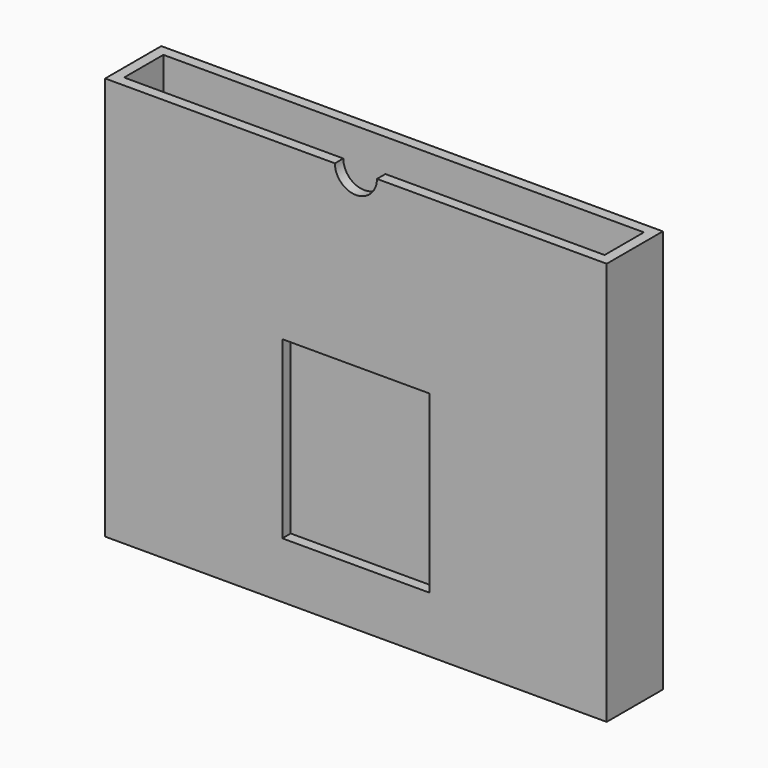
from build123d import *

# Parameters (mm, degrees)
F0_W     = 908.05
F0_H     = 127
F0_W_2   = 869.95
F0_H_2   = 88.9
F1_DEPTH = 730.25
F3_DEPTH = 25.4
F4_R     = 38.1
F5_DEPTH = 25.4


with BuildPart() as f1:
    # F0 (on Top) → F1 (new body)
    with BuildSketch(Plane.XY):
        Rectangle(F0_W, F0_H)
        Rectangle(F0_W_2, F0_H_2, mode=Mode.SUBTRACT)
    extrude(amount=F1_DEPTH)

    # F2 (on face) → F3 (cut)
    with BuildSketch(Plane.XZ.offset(63.5)):
        Polygon((-133.35, 101.6), (0, 101.6), (133.35, 101.6), (133.35, 419.1), (-133.35, 419.1), align=None)
    extrude(amount=-F3_DEPTH, mode=Mode.SUBTRACT)

    # F4 (on face) → F5 (cut)
    with BuildSketch(Plane.XZ.offset(63.5)):
        with Locations((0, 730.25)):
            Circle(F4_R)
    extrude(amount=-F5_DEPTH, mode=Mode.SUBTRACT)


solid = f1.part
